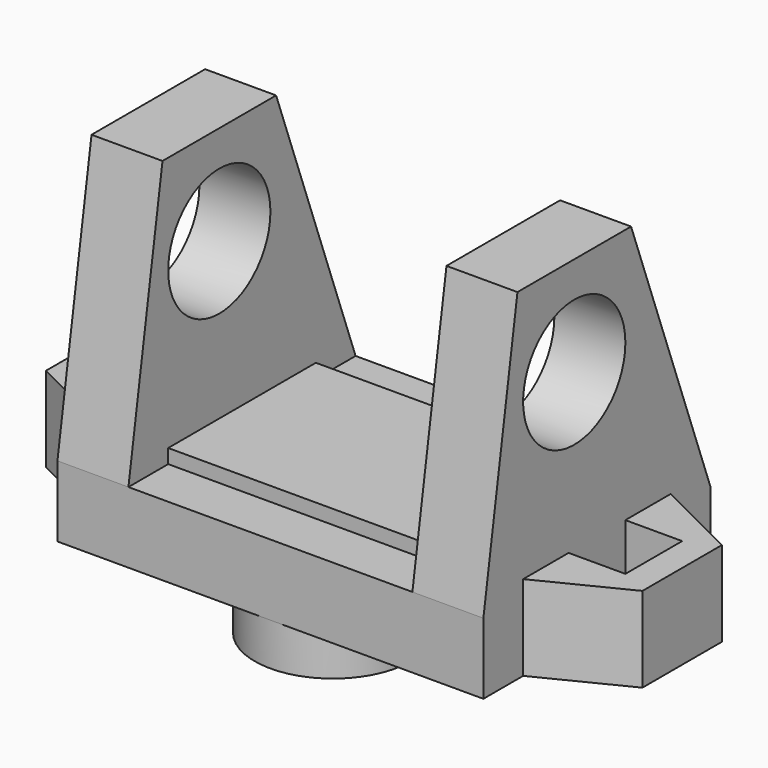
from build123d import *

# Parameters (mm, degrees)
SKETCH_R     = 5.5
PAD_DEPTH    = 3
SKETCH001_W  = 30
SKETCH001_H  = 20
PAD001_DEPTH = 5
SKETCH002_R  = 4.5
PAD002_DEPTH = 30
SKETCH003_W  = 20
SKETCH003_H  = 19
POCKET_DEPTH = 20.001
SKETCH004_W  = 4
SKETCH004_H  = 5
PAD003_DEPTH = 6


with BuildPart() as part:
    # Sketch → Pad (new body)
    with BuildSketch(Plane.XY):
        Circle(SKETCH_R)
    extrude(amount=PAD_DEPTH)

    # Sketch001 (on Face3 of Pad) → Pad001 (join)
    with BuildSketch(Plane.XY.offset(3)):
        with Locations((0, 4.5)):
            Rectangle(SKETCH001_W, SKETCH001_H)
    extrude(amount=PAD001_DEPTH)

    # Sketch002 (on Face6 of Pad001) → Pad002 (join)
    with BuildSketch(Plane.YZ.offset(15)):
        Polygon((-5.5, 7), (14.5, 7), (14.5, 8), (7.5, 27), (-2.5, 27), (-5.5, 8), align=None)
        with Locations((2.5, 20)):
            Circle(SKETCH002_R, mode=Mode.SUBTRACT)
    extrude(amount=-PAD002_DEPTH)

    # Sketch003 (on Face5 of Pad002) → Pocket (cut, through all)
    with BuildSketch(Plane.XZ.offset(5.5)):
        with Locations((0, 17.5)):
            Rectangle(SKETCH003_W, SKETCH003_H)
    extrude(amount=-POCKET_DEPTH, mode=Mode.SUBTRACT)

    # Sketch004 (on DatumPlane) → Pad003 (join)
    with BuildSketch(Plane(origin=(0, 0, 3), x_dir=(1, 0, 0), z_dir=(0, 0, -1))):
        Polygon((-15, 2), (-21, -1), (-21, -8), (-15, -11), (15, -11), (21, -8), (21, -1), (15, 2), align=None)
        with Locations((-17, -4.5)):
            Rectangle(SKETCH004_W, SKETCH004_H, mode=Mode.SUBTRACT)
        with Locations((17, -4.5)):
            Rectangle(SKETCH004_W, SKETCH004_H, mode=Mode.SUBTRACT)
    extrude(amount=-PAD003_DEPTH)


solid = part.part
